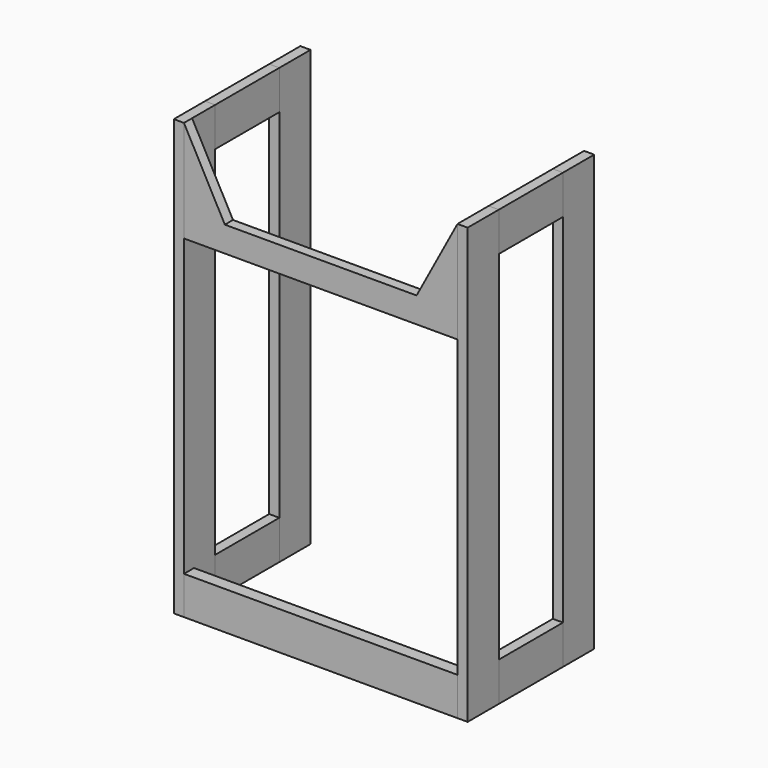
from build123d import *

# Parameters (mm, degrees)
F0_W      = 18
F0_H      = 69
F1_DEPTH  = 770
F5_W      = 18
F5_H      = 69
F6_DEPTH  = 142
F10_W     = 18
F10_H     = 180
F11_DEPTH = 484
F13_DEPTH = 18
F14_W     = 22.2175064376
F14_H     = 67.5106570125
F15_DEPTH = 484


with BuildPart() as f1:
    # F0 (on Top) → F1 (new body)
    with BuildSketch(Plane.XY):
        with Locations((106.5717476606, -33.3535233131)):
            Rectangle(F0_W, F0_H)
    extrude(amount=F1_DEPTH)


with BuildPart() as f2_1:
    # F2: copy of F1
    add(f1.part.moved(Location((-502, 211, 0))))


with BuildPart() as f3_1:
    # F3: copy of F1
    add(f1.part.moved(Location((-502, 0, 0))))


with BuildPart() as f4_1:
    # F4: copy of F1
    add(f1.part.moved(Location((0, 211, 0))))


with BuildPart() as f6:
    # F5 (on face) → F6 (new body, through all)
    with BuildSketch(Plane(origin=(0, 1.1464766869, 0), x_dir=(-1, 0, 0), z_dir=(0, 1, 0))):
        with Locations((-106.5717476606, 735.5)):
            Rectangle(F5_W, F5_H)
    extrude(amount=F6_DEPTH)


with BuildPart() as f7_1:
    # F7: copy of F6
    add(f6.part.moved(Location((0, 0, -701))))


with BuildPart() as f8_1:
    # F8: copy of F6
    add(f6.part.moved(Location((-502, 0, 0))))


with BuildPart() as f9_1:
    # F9: copy of F6
    add(f6.part.moved(Location((-502, 0, -701))))


with BuildPart() as f11:
    # F10 (on face) → F11 (new body, through all)
    with BuildSketch(Plane(origin=(97.5717476606, 0, 0), x_dir=(0, -1, 0), z_dir=(-1, 0, 0))):
        with Locations((58.8535233131, 680)):
            Rectangle(F10_W, F10_H)
    extrude(amount=F11_DEPTH)

    # F12 (on face) → F13 (cut, through all)
    with BuildSketch(Plane.XZ.offset(67.8535233131)):
        Polygon((-144.4282523394, 635), (-144.4282523394, 770), (-386.4282523394, 770), (-314.0980303288, 635), align=None)
        Polygon((97.5717476606, 770), (-144.4282523394, 770), (-144.4282523394, 635), (25.24152565, 635), align=None)
    extrude(amount=-F13_DEPTH, mode=Mode.SUBTRACT)


with BuildPart() as f15:
    # F14 (on face) → F15 (new body, through all)
    with BuildSketch(Plane(origin=(97.5717476606, 0, 0), x_dir=(0, -1, 0), z_dir=(-1, 0, 0))):
        with Locations((56.7447700943, 33.7553285062)):
            Rectangle(F14_W, F14_H)
    extrude(amount=F15_DEPTH)


solid = Compound([f1.part, f2_1.part, f3_1.part, f4_1.part, f6.part, f7_1.part, f8_1.part, f9_1.part, f11.part, f15.part])
